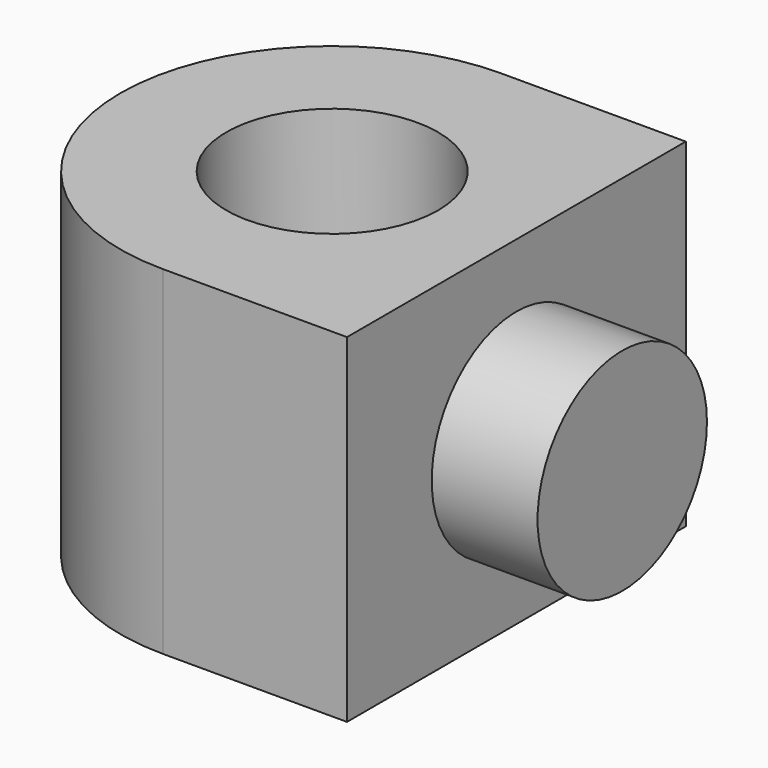
from build123d import *

# Parameters (mm, degrees)
F1_DEPTH = 160
F2_R     = 50
F3_DEPTH = 504
F4_R     = 50
F5_DEPTH = 50


with BuildPart() as f1:
    # F0 (on Top) → F1 (new body)
    with BuildSketch(Plane.XY):
        with BuildLine():
            Line((-43.5, -100), (43.5, -100))
            Line((43.5, -100), (43.5, 100))
            Line((43.5, 100), (-43.5, 100))
            ThreePointArc((-43.5, 100), (-143.5, 0), (-43.5, -100))
        make_face()
    extrude(amount=F1_DEPTH)

    # F2 (on face) → F3 (cut)
    with BuildSketch(Plane.XY.offset(160)):
        with Locations((-43.5, 0)):
            Circle(F2_R)
    extrude(amount=-F3_DEPTH, mode=Mode.SUBTRACT)

    # F4 (on face) → F5 (join)
    with BuildSketch(Plane.YZ.offset(43.5)):
        with Locations((0, 80)):
            Circle(F4_R)
    extrude(amount=F5_DEPTH)


solid = f1.part
